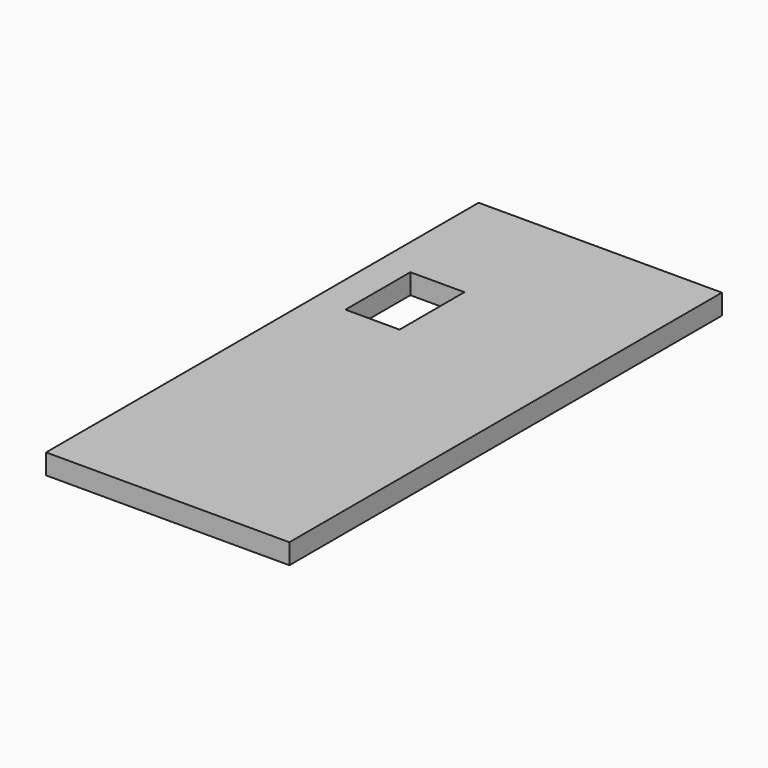
from build123d import *

# Parameters (mm, degrees)
BOX020_W                = 12
BOX020_H                = 30
BOX020_DEPTH            = 8
BOX019_W                = 80
BOX019_H                = 3
BOX019_DEPTH            = 36
BODY007_PLACEMENT_ANGLE = 90


with BuildPart() as micro_usb_hole:
    # Box020 → Box020 (new body)
    with BuildSketch(Plane(origin=(0, -18.5, 4.7), x_dir=(0, -1, 0), z_dir=(0, 0, 1))):
        with Locations((6, 15)):
            Rectangle(BOX020_W, BOX020_H)
    extrude(amount=BOX020_DEPTH)


with BuildPart() as wall_with_micro_usb_clone:
    # Box019 → Box019 (new body)
    with BuildSketch(Plane(origin=(0, 0, 0), x_dir=(0, -1, 0), z_dir=(0, 0, 1))):
        with Locations((40, 1.5)):
            Rectangle(BOX019_W, BOX019_H)
    extrude(amount=BOX019_DEPTH)

    # Cut008: cut micro usb hole
    add(micro_usb_hole.part, mode=Mode.SUBTRACT)


with BuildPart() as wall_with_micro_usb_clone_1:
    # Cut008 placement: moved
    add(wall_with_micro_usb_clone.part.moved(Location((-12, 80, -3))))


with BuildPart() as wall_with_micro_usb_clone_2:
    # Body007 placement: moved
    add(wall_with_micro_usb_clone_1.part.rotate(Axis((0, 0, 0), (0, 1, 0)), BODY007_PLACEMENT_ANGLE))


solid = wall_with_micro_usb_clone_2.part
